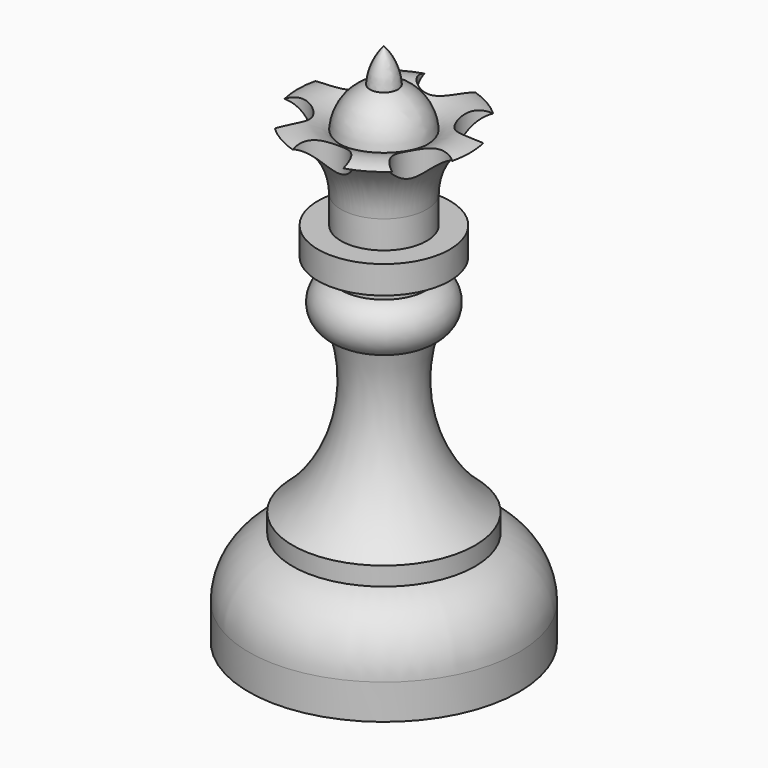
from build123d import *

# Parameters (mm, degrees)
F3_R     = 3
F4_DEPTH = 3.5


with BuildPart() as f1:
    # F0 (on Front) → F1 (revolve)
    with BuildSketch(Plane.XZ):
        with BuildLine():
            Line((0, 62.173534), (0, 0))
            Line((0, 0), (16.030475, 0))
            Line((16.030475, 0), (16.030475, 4.15064))
            ThreePointArc((16.030475, 4.15064), (14.588576, 8.616317), (10.807406, 11.395544))
            Line((10.807406, 11.395544), (10.807406, 13.585863))
            ThreePointArc((10.807406, 13.585863), (5.049983, 22.234819), (5.078877, 32.624792))
            ThreePointArc((5.078877, 32.624792), (7.214486, 35.489056), (5.078877, 38.35332))
            Line((5.078877, 38.35332), (5.078877, 40.206671))
            Line((5.078877, 40.206671), (7.811066, 40.206671))
            Line((7.811066, 40.206671), (7.811066, 43.49215))
            Line((7.811066, 43.49215), (5.078877, 43.49215))
            Line((5.078877, 43.49215), (5.078877, 46.777628))
            ThreePointArc((5.078877, 46.777628), (6.484208, 51.3575), (10.216462, 54.360908))
            ThreePointArc((10.216462, 54.360908), (7.525067, 54.685443), (5.078877, 53.517073))
            ThreePointArc((5.078877, 53.517073), (4.035372, 56.338689), (1.66133, 58.186484))
            ThreePointArc((1.66133, 58.186484), (1.169841, 60.321338), (0, 62.173534))
        make_face()
    revolve(axis=Axis((0, 0, 31.086767), (0, 0, -1)))

    # F3 (on offset) → F4 (cut, symmetric)
    with BuildSketch(Plane.XY.offset(54.7)):
        with Locations((-8.337838, 4.813853)):
            Circle(F3_R)
        with Locations((0, 9.627707)):
            Circle(F3_R)
        with Locations((8.337838, 4.813853)):
            Circle(F3_R)
        with Locations((8.337838, -4.813853)):
            Circle(F3_R)
        with Locations((0, -9.627707)):
            Circle(F3_R)
        with Locations((-8.337838, -4.813853)):
            Circle(F3_R)
    extrude(amount=F4_DEPTH, both=True, mode=Mode.SUBTRACT)


solid = f1.part
